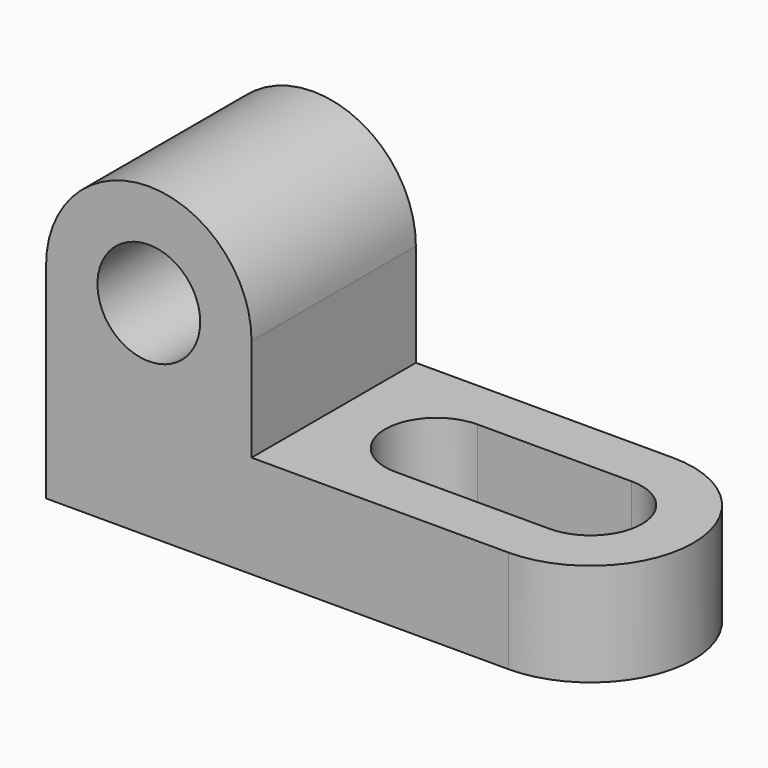
from build123d import *

# Parameters (mm, degrees)
F1_DEPTH = 25.4
F3_DEPTH = 12.7
F4_W     = 19.05
F4_H     = 12.7
F5_DEPTH = 25.4


with BuildPart() as f1:
    # F0 (on Front) → F1 (new body)
    with BuildSketch(Plane.XZ):
        with BuildLine():
            ThreePointArc((-38.781875, 37.438689), (-32.431875, 43.788689), (-26.081875, 37.438689))
            Line((-26.081875, 37.438689), (-19.731875, 37.438689))
            ThreePointArc((-19.731875, 37.438689), (-32.431875, 50.138689), (-45.131875, 37.438689))
            Line((-45.131875, 37.438689), (-38.781875, 37.438689))
        make_face()
        with BuildLine():
            Line((-19.731875, 37.438689), (-26.081875, 37.438689))
            ThreePointArc((-26.081875, 37.438689), (-32.431875, 31.088689), (-38.781875, 37.438689))
            Line((-38.781875, 37.438689), (-45.131875, 37.438689))
            Line((-45.131875, 37.438689), (-45.131875, 12.038689))
            Line((-45.131875, 12.038689), (12.018125, 12.038689))
            Line((12.018125, 12.038689), (12.018125, 24.738689))
            Line((12.018125, 24.738689), (-19.731875, 24.738689))
            Line((-19.731875, 24.738689), (-19.731875, 37.438689))
        make_face()
    extrude(amount=F1_DEPTH)

    # F2 (on face) → F3 (join)
    with BuildSketch(Plane.XY.offset(24.738689)):
        with BuildLine():
            Line((12.018125, 0), (12.018125, -25.4))
            ThreePointArc((12.018125, -25.4), (24.718125, -12.7), (12.018125, 0))
        make_face()
    extrude(amount=-F3_DEPTH)

    # F4 (on face) → F5 (cut)
    with BuildSketch(Plane.XY.offset(24.738689)):
        with Locations((2.493125, -12.7)):
            Rectangle(F4_W, F4_H)
        with BuildLine():
            Line((-7.031875, -19.05), (-7.031875, -6.35))
            ThreePointArc((-7.031875, -6.35), (-13.381875, -12.7), (-7.031875, -19.05))
        make_face()
        with BuildLine():
            ThreePointArc((12.018125, -19.05), (18.368125, -12.7), (12.018125, -6.35))
            Line((12.018125, -6.35), (12.018125, -19.05))
        make_face()
    extrude(amount=-F5_DEPTH, mode=Mode.SUBTRACT)


solid = f1.part
